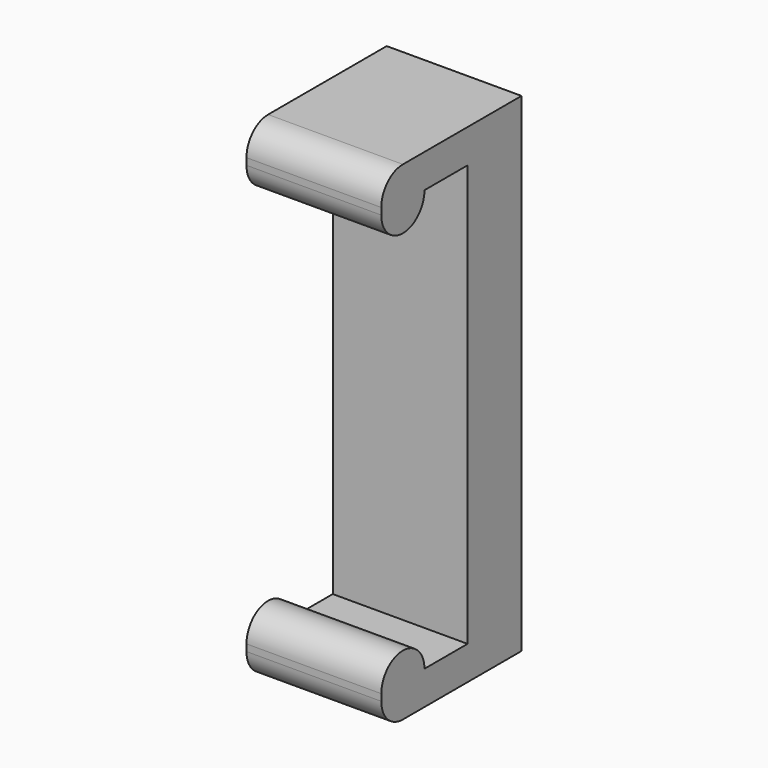
from build123d import *

# Parameters (mm, degrees)
PAD_DEPTH = 4
FILLET_R  = 0.8


with BuildPart() as part:
    # Sketch → Pad (new body)
    with BuildSketch(Plane.YZ):
        with BuildLine():
            Line((1.6, 6.25), (0, 6.25))
            ThreePointArc((-1.6, 6.25), (-0.8, 5.45), (0, 6.25))
            Line((-1.6, 6.25), (-1.6, 7.25))
            Line((-1.6, 7.25), (3.6, 7.25))
            Line((3.6, 7.25), (3.6, -7.25))
            Line((3.6, -7.25), (-1.6, -7.25))
            Line((-1.6, -7.25), (-1.6, -6.25))
            ThreePointArc((0, -6.25), (-0.8, -5.45), (-1.6, -6.25))
            Line((0, -6.25), (1.6, -6.25))
            Line((1.6, -6.25), (1.6, 6.25))
        make_face()
    extrude(amount=PAD_DEPTH)

    # Fillet
    fillet_edges = [part.edges().sort_by_distance(p)[0] for p in [
        (2, -1.6, 7.25),
        (2, -1.6, -7.25),
    ]]
    fillet(fillet_edges, radius=FILLET_R)


solid = part.part
